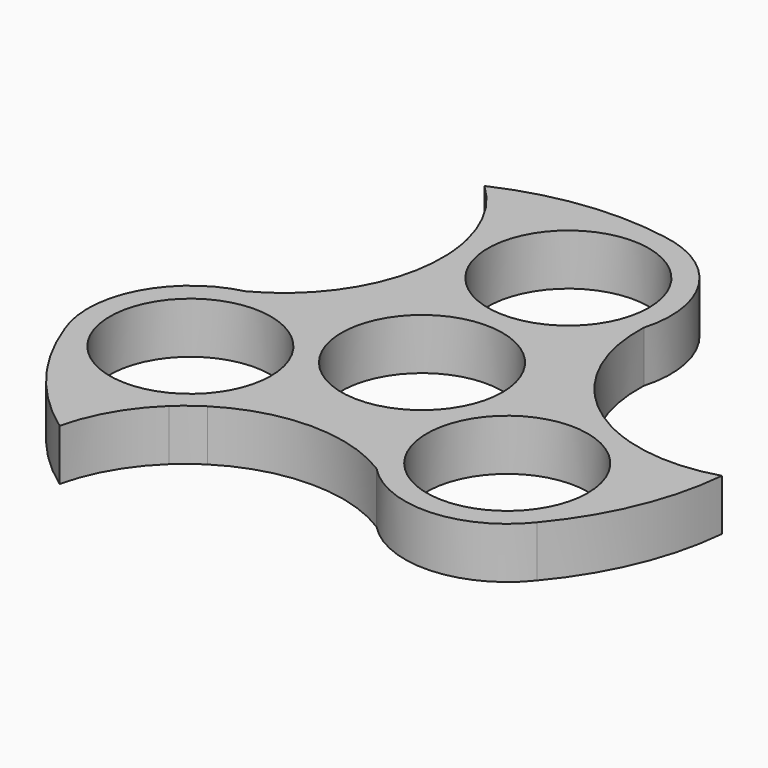
from build123d import *

# Parameters (mm, degrees)
F0_R     = 11
F1_DEPTH = 7


with BuildPart() as f1:
    # F0 (on Top) → F1 (new body)
    with BuildSketch(Plane.XY):
        with BuildLine():
            ThreePointArc((-13.44, 21.08), (-10.764199, 16.048351), (-6.30476, 12.5))
            ThreePointArc((-6.30476, 12.5), (-12.124356, 7), (-13.977698, -0.789918))
            ThreePointArc((-13.977698, -0.789918), (-19.28038, 1.297894), (-24.975816, 1.099381))
            ThreePointArc((-24.975816, 1.099381), (-34.094848, -6.085831), (-34.656323, -17.681899))
            ThreePointArc((-34.656323, -17.681899), (-26.327766, -25.695622), (-14.811491, -24.715814))
            ThreePointArc((-14.811491, -24.715814), (-13.234557, -23.368943), (-11.535816, -22.179381))
            ThreePointArc((-11.535816, -22.179381), (-8.51618, -17.346246), (-7.672937, -11.710082))
            ThreePointArc((-7.672937, -11.710082), (0, -14), (7.672937, -11.710082))
            ThreePointArc((7.672937, -11.710082), (8.51618, -17.346246), (11.535816, -22.179381))
            ThreePointArc((11.535816, -22.179381), (22.317908, -26.484089), (32.641135, -21.172307))
            ThreePointArc((32.641135, -21.172307), (35.416945, -9.952703), (28.810268, -0.46922))
            ThreePointArc((28.810268, -0.46922), (26.855377, 0.223009), (24.975816, 1.099381))
            ThreePointArc((24.975816, 1.099381), (19.28038, 1.297894), (13.977698, -0.789918))
            ThreePointArc((13.977698, -0.789918), (12.124356, 7), (6.30476, 12.5))
            ThreePointArc((6.30476, 12.5), (10.764199, 16.048351), (13.44, 21.08))
            ThreePointArc((13.44, 21.08), (11.77694, 32.56992), (2.015188, 38.854206))
            ThreePointArc((2.015188, 38.854206), (-9.089178, 35.648325), (-13.998777, 25.185034))
            ThreePointArc((-13.998777, 25.185034), (-13.620819, 23.145934), (-13.44, 21.08))
        make_face()
        with Locations((-21.650635, -12.5)):
            Circle(F0_R, mode=Mode.SUBTRACT)
        Circle(F0_R, mode=Mode.SUBTRACT)
        with Locations((21.650635, -12.5)):
            Circle(F0_R, mode=Mode.SUBTRACT)
        with Locations((0, 25)):
            Circle(F0_R, mode=Mode.SUBTRACT)
        with BuildLine():
            ThreePointArc((-20.283232, 36.026549), (-16.338165, 31.07117), (-13.998777, 25.185034))
            ThreePointArc((-13.998777, 25.185034), (-9.089178, 35.648325), (2.015188, 38.854206))
            ThreePointArc((2.015188, 38.854206), (-9.349816, 39.142095), (-20.283232, 36.026549))
        make_face()
        with BuildLine():
            ThreePointArc((41.341522, -0.447481), (35.077505, -1.386319), (28.810268, -0.46922))
            ThreePointArc((28.810268, -0.46922), (35.416945, -9.952703), (32.641135, -21.172307))
            ThreePointArc((32.641135, -21.172307), (38.572957, -11.473869), (41.341522, -0.447481))
        make_face()
        with BuildLine():
            ThreePointArc((-14.811491, -24.715814), (-26.327766, -25.695622), (-34.656323, -17.681899))
            ThreePointArc((-34.656323, -17.681899), (-29.223141, -27.668226), (-21.058291, -35.579068))
            ThreePointArc((-21.058291, -35.579068), (-18.73934, -29.684851), (-14.811491, -24.715814))
        make_face()
        with BuildLine():
            ThreePointArc((-13.977698, -0.789918), (-12.124356, 7), (-6.30476, 12.5))
            ThreePointArc((-6.30476, 12.5), (-10.764199, 16.048351), (-13.44, 21.08))
            ThreePointArc((-13.44, 21.08), (-16.319386, 9.422002), (-24.975816, 1.099381))
            ThreePointArc((-24.975816, 1.099381), (-19.28038, 1.297894), (-13.977698, -0.789918))
        make_face()
        with BuildLine():
            ThreePointArc((24.975816, 1.099381), (16.319386, 9.422002), (13.44, 21.08))
            ThreePointArc((13.44, 21.08), (10.764199, 16.048351), (6.30476, 12.5))
            ThreePointArc((6.30476, 12.5), (12.124356, 7), (13.977698, -0.789918))
            ThreePointArc((13.977698, -0.789918), (19.28038, 1.297894), (24.975816, 1.099381))
        make_face()
        with BuildLine():
            ThreePointArc((-7.672937, -11.710082), (-8.51618, -17.346246), (-11.535816, -22.179381))
            ThreePointArc((-11.535816, -22.179381), (0, -18.844003), (11.535816, -22.179381))
            ThreePointArc((11.535816, -22.179381), (8.51618, -17.346246), (7.672937, -11.710082))
            ThreePointArc((7.672937, -11.710082), (0, -14), (-7.672937, -11.710082))
        make_face()
    extrude(amount=F1_DEPTH)


solid = f1.part
